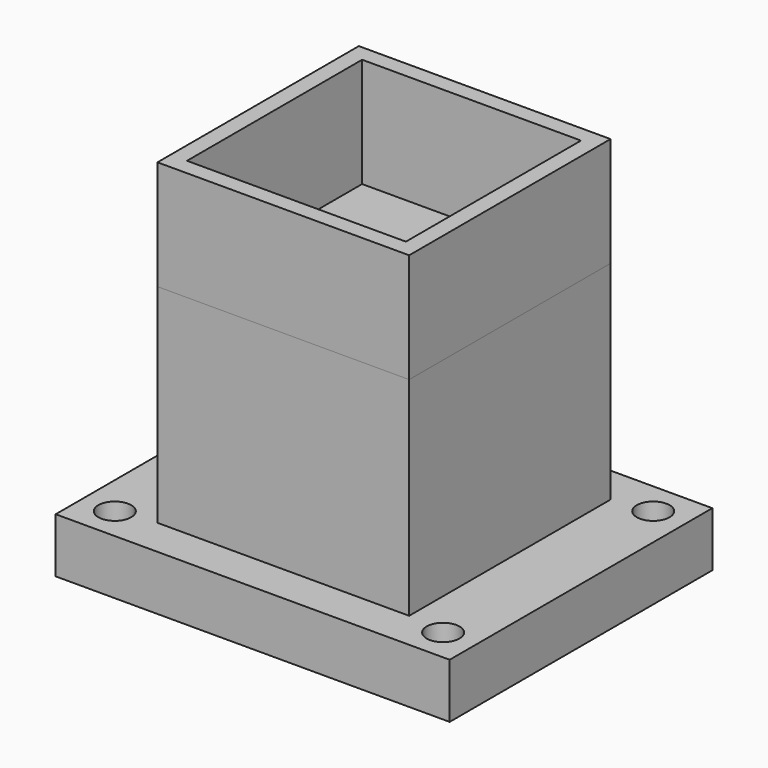
from build123d import *

# Parameters (mm, degrees)
F0_W     = 36
F0_H     = 30
F1_DEPTH = 5
F2_W     = 23
F2_H     = 23
F3_DEPTH = 19
F4_R     = 1.5
F5_DEPTH = 5
F6_W     = 23
F6_H     = 23
F7_DEPTH = 10
F8_W     = 20
F8_H     = 20
F9_DEPTH = 10


with BuildPart() as f1:
    # F0 (on Top) → F1 (new body)
    with BuildSketch(Plane.XY):
        Rectangle(F0_W, F0_H)
    extrude(amount=-F1_DEPTH)

    # F2 (on Top) → F3 (join)
    with BuildSketch(Plane.XY):
        Rectangle(F2_W, F2_H)
    extrude(amount=F3_DEPTH)

    # F4 (on Top) → F5 (cut)
    with BuildSketch(Plane.XY):
        with Locations((-15, -12)):
            Circle(F4_R)
        with Locations((-15, 12)):
            Circle(F4_R)
        with Locations((15, 12)):
            Circle(F4_R)
        with Locations((15, -12)):
            Circle(F4_R)
    extrude(amount=-F5_DEPTH, mode=Mode.SUBTRACT)


with BuildPart() as f7:
    # F6 (on face) → F7 (new body)
    with BuildSketch(Plane.XY.offset(19)):
        Rectangle(F6_W, F6_H)
    extrude(amount=F7_DEPTH)

    # F8 (on face) → F9 (cut)
    with BuildSketch(Plane.XY.offset(29)):
        Rectangle(F8_W, F8_H)
    extrude(amount=-F9_DEPTH, mode=Mode.SUBTRACT)


solid = Compound([f1.part, f7.part])
